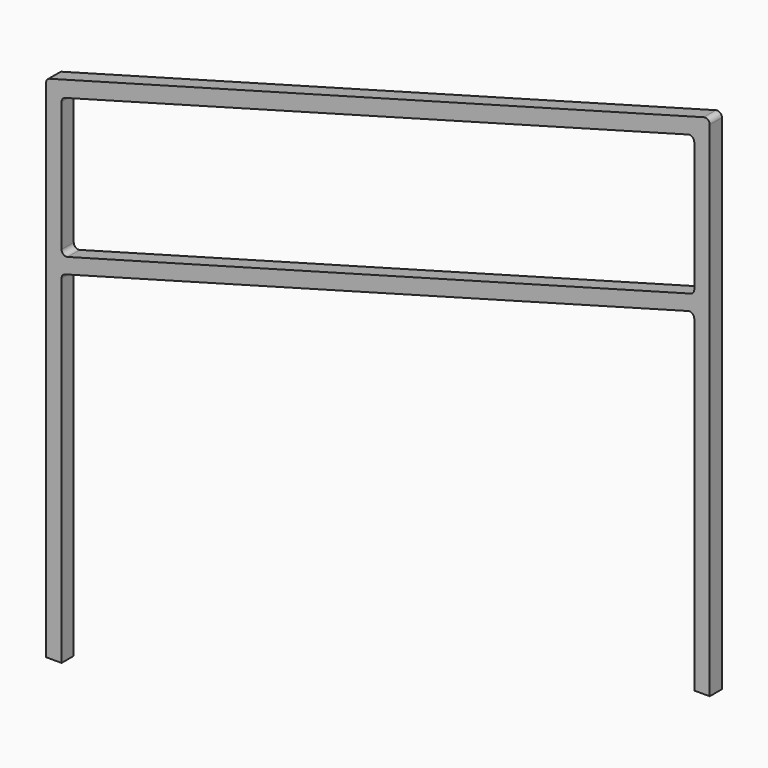
from build123d import *

# Parameters (mm, degrees)
F1_DEPTH = 16


with BuildPart() as f1:
    # F0 (on Front) → F1 (new body, symmetric)
    with BuildSketch(Plane.XZ):
        with BuildLine():
            Line((-255.046532, 319.867053), (-255.046532, -742.5))
            Line((-255.046532, -742.5), (-222.546532, -742.5))
            Line((-222.546532, -742.5), (-222.546532, -31.247201))
            ThreePointArc((-222.546532, -31.247201), (-220.495519, -25.17978), (-215.183813, -21.60123))
            Line((-215.183813, -21.60123), (1093.658919, 336.246306))
            ThreePointArc((1093.658919, 336.246306), (1102.363621, 334.549323), (1106.2962, 326.600335))
            Line((1106.2962, 326.600335), (1106.2962, -361.412819))
            Line((1106.2962, -361.412819), (1138.7962, -361.412819))
            Line((1138.7962, -361.412819), (1138.7962, 695.486082))
            ThreePointArc((1138.7962, 695.486082), (1134.863621, 703.43507), (1126.158919, 705.132052))
            Line((1126.158919, 705.132052), (-247.683813, 329.513023))
            ThreePointArc((-247.683813, 329.513023), (-252.995519, 325.934473), (-255.046532, 319.867053))
        make_face()
        with BuildLine():
            ThreePointArc((1093.658919, 662.55348), (1102.363621, 660.856497), (1106.2962, 652.90751))
            Line((1106.2962, 652.90751), (1106.2962, 379.834382))
            ThreePointArc((1106.2962, 379.834382), (1104.245188, 373.766961), (1098.933482, 370.188411))
            Line((1098.933482, 370.188411), (-209.90925, 12.340875))
            ThreePointArc((-209.90925, 12.340875), (-218.613952, 14.037858), (-222.546532, 21.986846))
            Line((-222.546532, 21.986846), (-222.546532, 295.059974))
            ThreePointArc((-222.546532, 295.059974), (-220.495519, 301.127394), (-215.183813, 304.705944))
            Line((-215.183813, 304.705944), (1093.658919, 662.55348))
        make_face(mode=Mode.SUBTRACT)
    extrude(amount=F1_DEPTH, both=True)


solid = f1.part
